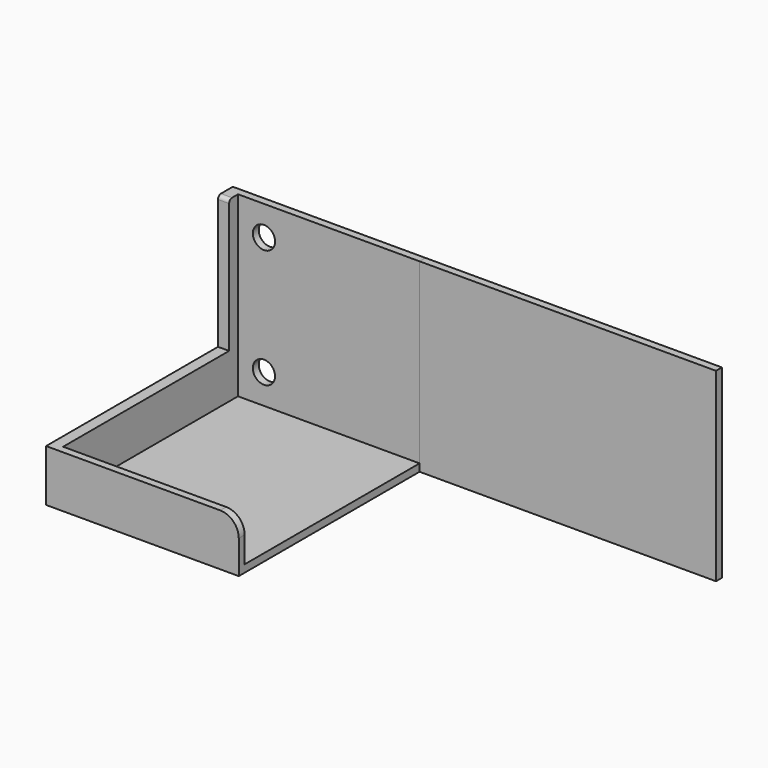
from build123d import *

# Parameters (mm, degrees)
CYLINDER001_R     = 3
CYLINDER001_DEPTH = 25
BOX001_W          = 49
BOX001_H          = 59
BOX001_DEPTH      = 48
BOX002_W          = 53
BOX002_H          = 58
BOX002_DEPTH      = 44
CYLINDER_R        = 3
CYLINDER_DEPTH    = 25
BOX_W             = 52
BOX_H             = 63
BOX_DEPTH         = 50
FILLET_1_R        = 5
FILLET_2_R        = 1
BOX003_W          = 80
BOX003_H          = 2
BOX003_DEPTH      = 50


with BuildPart() as cylinder001:
    # Cylinder001 → Cylinder001 (new body)
    with BuildSketch(Plane(origin=(18, 75, 38), x_dir=(1, 0, 0), z_dir=(0, -1, 0))):
        Circle(CYLINDER001_R)
    extrude(amount=CYLINDER001_DEPTH)


with BuildPart() as brush_seat:
    # Box001 → Box001 (new body)
    with BuildSketch(Plane(origin=(-24, 1, -2), x_dir=(1, 0, 0), z_dir=(0, 0, 1))):
        with Locations((24.5, 29.5)):
            Rectangle(BOX001_W, BOX001_H)
    extrude(amount=BOX001_DEPTH)


with BuildPart() as big_remover:
    # Box002 → Box002 (new body)
    with BuildSketch(Plane(origin=(-25, -1, 10), x_dir=(1, 0, 0), z_dir=(0, 0, 1))):
        with Locations((26.5, 29)):
            Rectangle(BOX002_W, BOX002_H)
    extrude(amount=BOX002_DEPTH)


with BuildPart() as holes_and_seats:
    # Cylinder → Cylinder (new body)
    with BuildSketch(Plane(origin=(18, 75, 6), x_dir=(1, 0, 0), z_dir=(0, -1, 0))):
        Circle(CYLINDER_R)
    extrude(amount=CYLINDER_DEPTH)

    # Fusion: union Cylinder001, Brush seat, Big remover
    add(cylinder001.part)
    add(brush_seat.part)
    add(big_remover.part)


with BuildPart() as fillet_body:
    # Box → Box (new body)
    with BuildSketch(Plane(origin=(-24, -1, -4), x_dir=(1, 0, 0), z_dir=(0, 0, 1))):
        with Locations((26, 31.5)):
            Rectangle(BOX_W, BOX_H)
    extrude(amount=BOX_DEPTH)

    # Cut: cut Holes and seats
    add(holes_and_seats.part, mode=Mode.SUBTRACT)

    # Fillet 1
    fillet_1_edges = [fillet_body.edges().sort_by_distance(p)[0] for p in [
        (-24, 0, 10),
    ]]
    fillet(fillet_1_edges, radius=FILLET_1_R)

    # Fillet 2
    fillet_2_edges = [fillet_body.edges().sort_by_distance(p)[0] for p in [
        (26.5, 57, 46),
    ]]
    fillet(fillet_2_edges, radius=FILLET_2_R)


with BuildPart() as part_mirroring:
    # Part__Mirroring: instance of Fillet body
    add(fillet_body.part.mirror(Plane(origin=(4e-06, 30.5, 21), x_dir=(0, -1, 0), z_dir=(1, 0, 0))))


with BuildPart() as part_mirroring_1:
    # Part__Mirroring placement: moved
    add(part_mirroring.part.moved(Location((-128, 0, 0))))


with BuildPart() as small_turbo_brush_joiner:
    # Box003 → Box003 (new body)
    with BuildSketch(Plane(origin=(-104, 60, -4), x_dir=(1, 0, 0), z_dir=(0, 0, 1))):
        with Locations((40, 1)):
            Rectangle(BOX003_W, BOX003_H)
    extrude(amount=BOX003_DEPTH)


solid = Compound([part_mirroring_1.part, small_turbo_brush_joiner.part])
